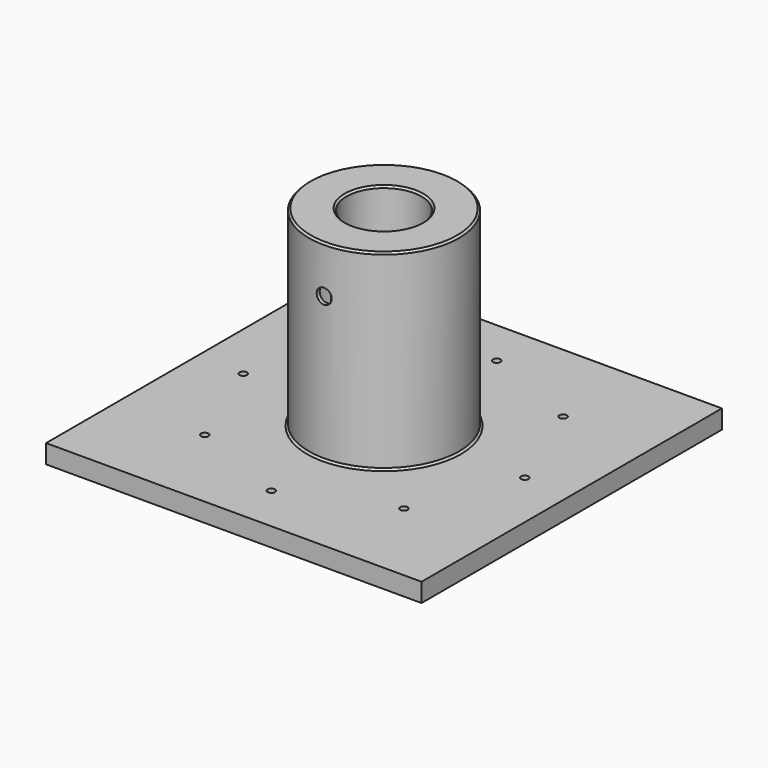
from build123d import *

# Parameters (mm, degrees)
F0_W      = 200
F0_H      = 200
F0_R      = 2
F1_DEPTH  = 10
F2_R      = 40
F2_R_2    = 38
F3_DEPTH  = 100
F7_SIZE   = 1
F8_SIZE   = 1
F10_R     = 4
F11_DEPTH = 80
F12_DEPTH = 25


with BuildPart() as f1:
    # F0 (on Top) → F1 (new body)
    with BuildSketch(Plane.XY):
        Rectangle(F0_W, F0_H)
        with Locations((-53.033009, -53.033009)):
            Circle(F0_R, mode=Mode.SUBTRACT)
        with Locations((0, -75)):
            Circle(F0_R, mode=Mode.SUBTRACT)
        with Locations((53.033009, -53.033009)):
            Circle(F0_R, mode=Mode.SUBTRACT)
        with Locations((-75, 0)):
            Circle(F0_R, mode=Mode.SUBTRACT)
        with Locations((-53.033009, 53.033009)):
            Circle(F0_R, mode=Mode.SUBTRACT)
        with Locations((75, 0)):
            Circle(F0_R, mode=Mode.SUBTRACT)
        with Locations((0, 75)):
            Circle(F0_R, mode=Mode.SUBTRACT)
        with Locations((53.033009, 53.033009)):
            Circle(F0_R, mode=Mode.SUBTRACT)
    extrude(amount=-F1_DEPTH)

    # F2 (on face) → F3 (join)
    with BuildSketch(Plane.XY):
        Circle(F2_R)
        Circle(F2_R_2, mode=Mode.SUBTRACT)
    extrude(amount=F3_DEPTH)

    # F5 (on Front) → F6 (revolve)
    with BuildSketch(Plane.XZ):
        Polygon((0, 52), (0, 50), (22, 50), (22, 100), (40, 100), (40, 102), (20, 102), (20, 52), align=None)
    revolve(axis=Axis((0, 0, 75.148744), (0, 0, 1)))

    # F7
    f7_edges = [f1.edges().sort_by_distance(p)[0] for p in [
        (-40, 0, 0),
        (40, 0, 51),
        (-40, 0, 102),
    ]]
    chamfer(f7_edges, length=F7_SIZE)

    # F8
    f8_edges = [f1.edges().sort_by_distance(p)[0] for p in [
        (-20, 0, 102),
    ]]
    chamfer(f8_edges, length=F8_SIZE)

    # F10 (on offset) → F11 (cut)
    with BuildSketch(Plane.XZ.offset(40)):
        with Locations((0, 77)):
            Circle(F10_R)
    extrude(amount=-F11_DEPTH, mode=Mode.SUBTRACT)

    # F0 (on Top) → F12 (cut)
    with BuildSketch(Plane.XY):
        with Locations((0, 75)):
            Circle(F0_R)
    extrude(amount=-F12_DEPTH, mode=Mode.SUBTRACT)


solid = f1.part
